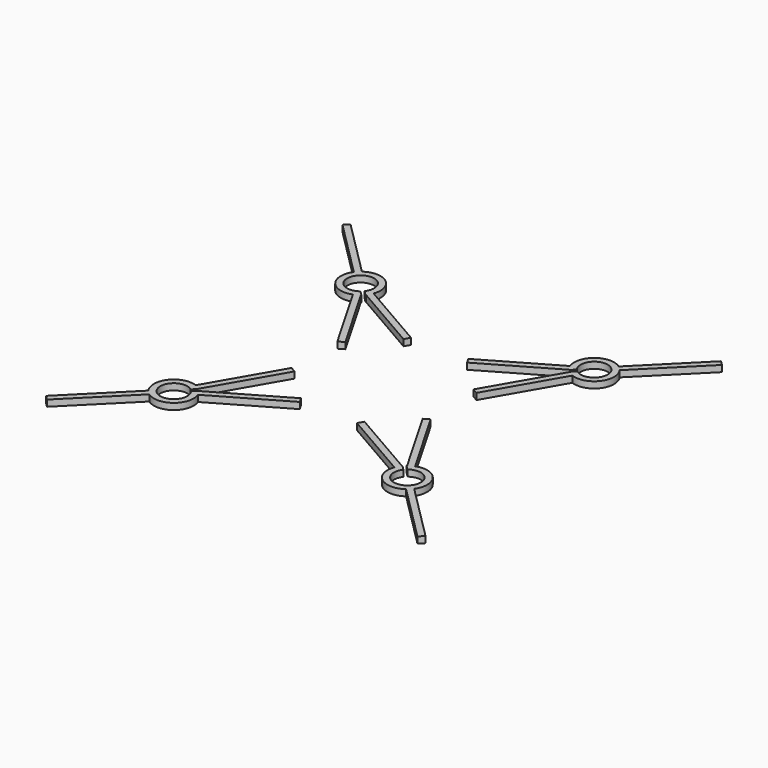
from build123d import *

# Parameters (mm, degrees)
EXTRUDE_DEPTH    = 2
EXTRUDE001_DEPTH = 2
EXTRUDE002_DEPTH = 2
EXTRUDE003_DEPTH = 2


with BuildPart() as extrude_body:
    # Face → Extrude (new body)
    with BuildSketch(Plane(origin=(-33.892057, 33.892057, 0), x_dir=(0, -1, 0), z_dir=(0, 0, -1))):
        with BuildLine():
            Line((24.888333, -11.998412), (2.965432, 0.65878))
            ThreePointArc((2.965432, 0.65878), (0.927263, 7.835954), (-6.532871, 7.947084))
            Line((-6.532871, 7.947084), (-24.432844, 25.847058))
            Line((-24.432844, 25.847058), (-25.847058, 24.432844))
            Line((-25.847058, 24.432844), (-7.947084, 6.532871))
            ThreePointArc((-7.947084, 6.532871), (-7.835954, -0.927263), (-0.65878, -2.965432))
            Line((-0.65878, -2.965432), (11.998412, -24.888333))
            Line((11.998412, -24.888333), (13.730463, -23.888333))
            Line((13.730463, -23.888333), (1.07327, -1.965432))
            ThreePointArc((1.07327, -1.965432), (1.123958, -1.923636), (1.174204, -1.88131))
            Line((1.174204, -1.88131), (-0.246715, -0.460392))
            ThreePointArc((-0.246715, -0.460392), (-5.882699, 5.882699), (0.460392, 0.246715))
            Line((0.460392, 0.246715), (1.88131, -1.174204))
            ThreePointArc((1.88131, -1.174204), (1.923636, -1.123958), (1.965432, -1.07327))
            Line((1.965432, -1.07327), (23.888333, -13.730463))
            Line((23.888333, -13.730463), (24.888333, -11.998412))
        make_face()
    extrude(amount=-EXTRUDE_DEPTH)


with BuildPart() as extrude001:
    # Face001 → Extrude001 (new body)
    with BuildSketch(Plane(origin=(33.892057, 33.892057, 0), x_dir=(0, 1, 0), z_dir=(0, 0, 1))):
        with BuildLine():
            Line((25.847058, -24.432844), (7.947084, -6.532871))
            ThreePointArc((7.947084, -6.532871), (7.835954, 0.927263), (0.65878, 2.965432))
            Line((0.65878, 2.965432), (-11.998412, 24.888333))
            Line((-11.998412, 24.888333), (-13.730463, 23.888333))
            Line((-13.730463, 23.888333), (-1.07327, 1.965432))
            ThreePointArc((-1.07327, 1.965432), (-1.123958, 1.923636), (-1.174204, 1.88131))
            Line((-1.174204, 1.88131), (0.246715, 0.460392))
            ThreePointArc((0.246715, 0.460392), (5.882699, -5.882699), (-0.460392, -0.246715))
            Line((-0.460392, -0.246715), (-1.88131, 1.174204))
            ThreePointArc((-1.88131, 1.174204), (-1.923636, 1.123958), (-1.965432, 1.07327))
            Line((-1.965432, 1.07327), (-23.888333, 13.730463))
            Line((-23.888333, 13.730463), (-24.888333, 11.998412))
            Line((-24.888333, 11.998412), (-2.965432, -0.65878))
            ThreePointArc((-2.965432, -0.65878), (-0.927263, -7.835954), (6.532871, -7.947084))
            Line((6.532871, -7.947084), (24.432844, -25.847058))
            Line((24.432844, -25.847058), (25.847058, -24.432844))
        make_face()
    extrude(amount=EXTRUDE001_DEPTH)


with BuildPart() as extrude002:
    # Face002 → Extrude002 (new body)
    with BuildSketch(Plane(origin=(33.892057, -33.892057, 0), x_dir=(0, 1, 0), z_dir=(0, 0, 1))):
        with BuildLine():
            Line((11.998412, 24.888333), (-0.65878, 2.965432))
            ThreePointArc((-0.65878, 2.965432), (-7.835954, 0.927263), (-7.947084, -6.532871))
            Line((-7.947084, -6.532871), (-25.847058, -24.432844))
            Line((-25.847058, -24.432844), (-24.432844, -25.847058))
            Line((-24.432844, -25.847058), (-6.532871, -7.947084))
            ThreePointArc((-6.532871, -7.947084), (0.927263, -7.835954), (2.965432, -0.65878))
            Line((2.965432, -0.65878), (24.888333, 11.998412))
            Line((24.888333, 11.998412), (23.888333, 13.730463))
            Line((23.888333, 13.730463), (1.965432, 1.07327))
            ThreePointArc((1.965432, 1.07327), (1.923636, 1.123958), (1.88131, 1.174204))
            Line((1.88131, 1.174204), (0.460392, -0.246715))
            ThreePointArc((0.460392, -0.246715), (-5.882699, -5.882699), (-0.246715, 0.460392))
            Line((-0.246715, 0.460392), (1.174204, 1.88131))
            ThreePointArc((1.174204, 1.88131), (1.123958, 1.923636), (1.07327, 1.965432))
            Line((1.07327, 1.965432), (13.730463, 23.888333))
            Line((13.730463, 23.888333), (11.998412, 24.888333))
        make_face()
    extrude(amount=EXTRUDE002_DEPTH)


with BuildPart() as extrude003:
    # Face003 → Extrude003 (new body)
    with BuildSketch(Plane(origin=(-33.892057, -33.892057, 0), x_dir=(0, 1, 0), z_dir=(0, 0, 1))):
        with BuildLine():
            Line((24.888333, -11.998412), (2.965432, 0.65878))
            ThreePointArc((2.965432, 0.65878), (0.927263, 7.835954), (-6.532871, 7.947084))
            Line((-6.532871, 7.947084), (-24.432844, 25.847058))
            Line((-24.432844, 25.847058), (-25.847058, 24.432844))
            Line((-25.847058, 24.432844), (-7.947084, 6.532871))
            ThreePointArc((-7.947084, 6.532871), (-7.835954, -0.927263), (-0.65878, -2.965432))
            Line((-0.65878, -2.965432), (11.998412, -24.888333))
            Line((11.998412, -24.888333), (13.730463, -23.888333))
            Line((13.730463, -23.888333), (1.07327, -1.965432))
            ThreePointArc((1.07327, -1.965432), (1.123958, -1.923636), (1.174204, -1.88131))
            Line((1.174204, -1.88131), (-0.246715, -0.460392))
            ThreePointArc((-0.246715, -0.460392), (-5.882699, 5.882699), (0.460392, 0.246715))
            Line((0.460392, 0.246715), (1.88131, -1.174204))
            ThreePointArc((1.88131, -1.174204), (1.923636, -1.123958), (1.965432, -1.07327))
            Line((1.965432, -1.07327), (23.888333, -13.730463))
            Line((23.888333, -13.730463), (24.888333, -11.998412))
        make_face()
    extrude(amount=EXTRUDE003_DEPTH)


solid = Compound([extrude_body.part, extrude001.part, extrude002.part, extrude003.part])
